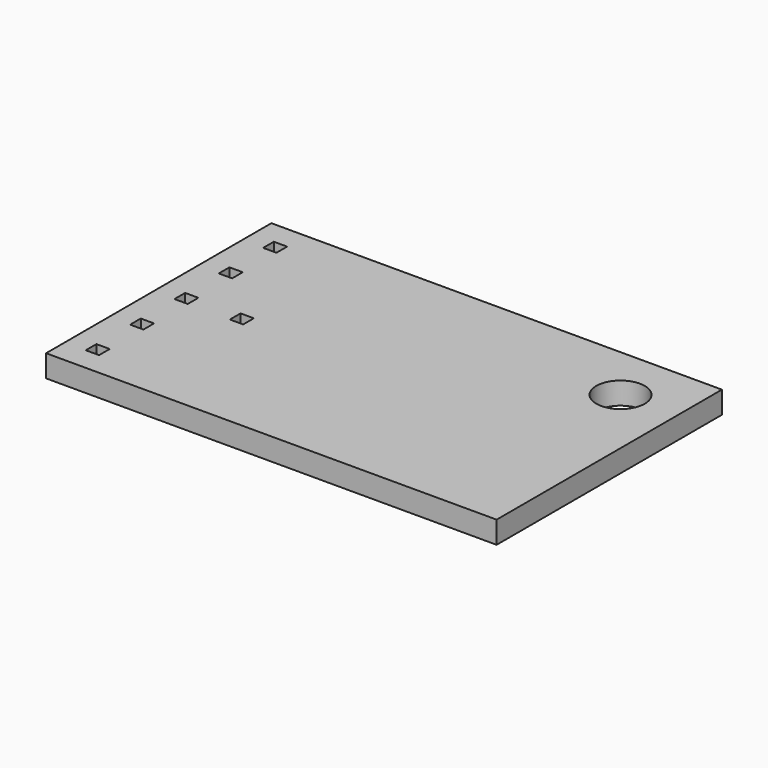
from build123d import *

# Parameters (mm, degrees)
F0_W     = 20.32
F0_H     = 12.7
F0_W_2   = 0.6
F0_H_2   = 0.6
F0_R     = 1.0922
F1_DEPTH = 1


with BuildPart() as f1:
    # F0 (on Top) → F1 (new body)
    with BuildSketch(Plane.XY):
        with Locations((10.16, 6.35)):
            Rectangle(F0_W, F0_H)
        with Locations((1.25, 1.35)):
            Rectangle(F0_W_2, F0_H_2, mode=Mode.SUBTRACT)
        with Locations((1.25, 3.85)):
            Rectangle(F0_W_2, F0_H_2, mode=Mode.SUBTRACT)
        with Locations((1.25, 6.35)):
            Rectangle(F0_W_2, F0_H_2, mode=Mode.SUBTRACT)
        with Locations((3.75, 6.35)):
            Rectangle(F0_W_2, F0_H_2, mode=Mode.SUBTRACT)
        with Locations((1.25, 8.85)):
            Rectangle(F0_W_2, F0_H_2, mode=Mode.SUBTRACT)
        with Locations((1.25, 11.35)):
            Rectangle(F0_W_2, F0_H_2, mode=Mode.SUBTRACT)
        with Locations((17.78, 10.16)):
            Circle(F0_R, mode=Mode.SUBTRACT)
    extrude(amount=F1_DEPTH)


solid = f1.part
